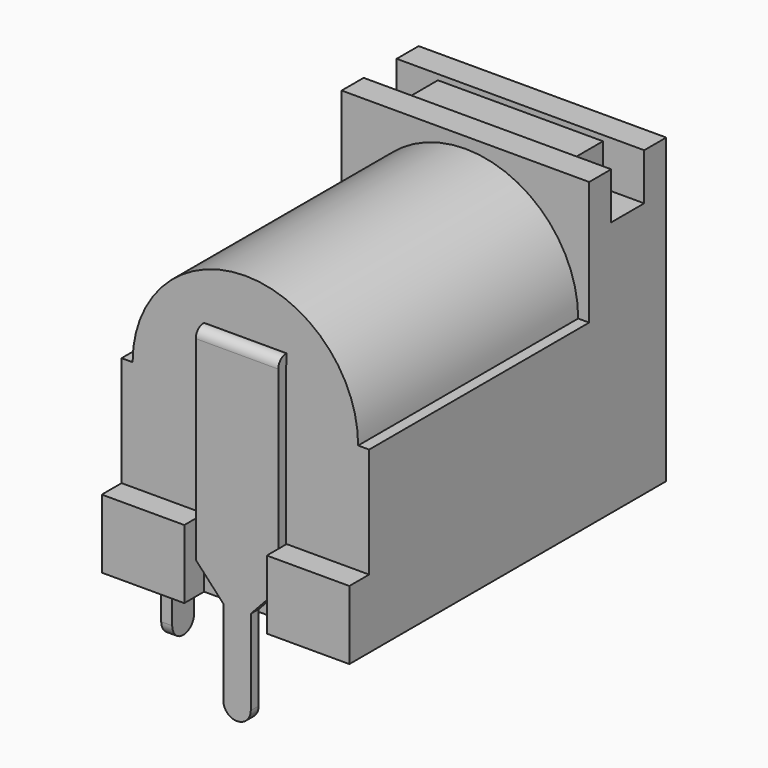
from build123d import *

# Parameters (mm, degrees)
SKETCH_W                = 9
SKETCH_H                = 11
PAD_DEPTH               = 3.5
PAD001_DEPTH            = 10
SKETCH002_W             = 9
SKETCH002_H             = 1.5
POCKET_DEPTH            = 0.2
SKETCH003_W             = 1.5
SKETCH003_H             = 1.5
POCKET001_DEPTH         = 1.5
SKETCH004_R             = 3.2
POCKET002_DEPTH         = 7
SKETCH005_W             = 3
SKETCH005_H             = 2.5
PAD002_DEPTH            = 0.9
PAD003_DEPTH            = 0.36
SKETCH007_W             = 3
SKETCH007_H             = 0.36
PAD004_DEPTH            = 2
FILLET_R                = 0.35
PAD005_DEPTH            = 0.4
SKETCH010_W             = 2.5
SKETCH010_H             = 0.36
PAD006_DEPTH            = 2
FILLET001_R             = 0.39
BODY002_PLACEMENT_ANGLE = -90
PAD007_DEPTH            = 0.125
PAD007_DEPTH_BACK       = 0.125
SKETCH012_R             = 1
PAD008_DEPTH            = 6
CHAMFER_SIZE            = 0.2


with BuildPart() as body:
    # Sketch → Pad (new body)
    with BuildSketch(Plane.XZ):
        with Locations((0, 5.5)):
            Rectangle(SKETCH_W, SKETCH_H)
    extrude(amount=PAD_DEPTH)

    # Sketch001 (on Face6 of Pad) → Pad001 (join)
    with BuildSketch(Plane.XZ.offset(3.5)):
        with BuildLine():
            Line((-4.5, 0), (4.5, 0))
            Line((4.5, 0), (4.5, 6.5))
            Line((4.5, 6.5), (4.1, 6.5))
            ThreePointArc((4.1, 6.5), (0, 10.6), (-4.1, 6.5))
            Line((-4.5, 6.5), (-4.1, 6.5))
            Line((-4.5, 0), (-4.5, 6.5))
        make_face()
    extrude(amount=PAD001_DEPTH)

    # Sketch002 (on Face1 of Pad001) → Pocket (cut)
    with BuildSketch(Plane(origin=(0, 0, 11), x_dir=(-1, 0, 0), z_dir=(0, 0, 1))):
        with Locations((0, 1.75)):
            Rectangle(SKETCH002_W, SKETCH002_H)
    extrude(amount=-POCKET_DEPTH, mode=Mode.SUBTRACT)

    # Sketch003 (on Face11 of Pocket) → Pocket001 (cut)
    with BuildSketch(Plane(origin=(0, 0, 10.8), x_dir=(-1, 0, 0), z_dir=(0, 0, 1))):
        with Locations((-3.75, 1.75)):
            Rectangle(SKETCH003_W, SKETCH003_H)
        with Locations((3.75, 1.75)):
            Rectangle(SKETCH003_W, SKETCH003_H)
    extrude(amount=-POCKET001_DEPTH, mode=Mode.SUBTRACT)

    # Sketch004 (on Face2 of Pocket001) → Pocket002 (cut)
    with BuildSketch(Plane(origin=(0, 0, 0), x_dir=(1, 0, 0), z_dir=(0, 1, 0))):
        with Locations((0, -6.5)):
            Circle(SKETCH004_R)
    extrude(amount=-POCKET002_DEPTH, mode=Mode.SUBTRACT)

    # Sketch005 (on Face22 of Pocket002) → Pad002 (join)
    with BuildSketch(Plane.XZ.offset(13.5)):
        with Locations((-3, 1.25)):
            Rectangle(SKETCH005_W, SKETCH005_H)
        with Locations((3, 1.25)):
            Rectangle(SKETCH005_W, SKETCH005_H)
    extrude(amount=PAD002_DEPTH)


with BuildPart() as body_1:
    # Body placement: moved
    add(body.part.moved(Location((0, 7.7, 0))))


with BuildPart() as leg_back:
    # Sketch006 → Pad003 (new body)
    with BuildSketch(Plane.XZ):
        with BuildLine():
            Line((-0.5, -3), (-0.5, 0.1))
            Line((-0.5, 0.1), (-1.5, 1.175375))
            Line((-1.5, 1.175375), (-1.5, 8.605375))
            Line((-1.5, 8.605375), (1.5, 8.605375))
            Line((1.5, 8.605375), (1.5, 1.175375))
            Line((1.5, 1.175375), (0.5, 0.1))
            Line((0.5, 0.1), (0.5, -3))
            ThreePointArc((-0.5, -3), (0, -3.5), (0.5, -3))
        make_face()
    extrude(amount=PAD003_DEPTH)

    # Sketch007 (on Face9 of Pad003) → Pad004 (join)
    with BuildSketch(Plane(origin=(0, 0, 0), x_dir=(1, 0, 0), z_dir=(0, 1, 0))):
        with Locations((0, -8.425375)):
            Rectangle(SKETCH007_W, SKETCH007_H)
    extrude(amount=PAD004_DEPTH)

    # Fillet
    fillet_edges = [leg_back.edges().sort_by_distance(p)[0] for p in [
        (0, -0.36, 8.605375),
    ]]
    fillet(fillet_edges, radius=FILLET_R)


with BuildPart() as leg_back_1:
    # Body001 placement: moved
    add(leg_back.part.moved(Location((0, -5.82, 0))))


with BuildPart() as leg_side:
    # Sketch009 → Pad005 (new body)
    with BuildSketch(Plane.XZ):
        with BuildLine():
            Line((-0.5, -3), (-0.5, -0.5))
            Line((-0.5, -0.5), (-1.25, 0.306531))
            Line((-1.25, 0.306531), (-1.25, 3.006531))
            Line((-1.25, 3.006531), (1.25, 3.006531))
            Line((1.25, 3.006531), (1.25, 0.306531))
            Line((1.25, 0.306531), (0.5, -0.5))
            Line((0.5, -0.5), (0.5, -3))
            ThreePointArc((-0.5, -3), (0, -3.5), (0.5, -3))
        make_face()
    extrude(amount=PAD005_DEPTH)

    # Sketch010 (on Face9 of Pad005) → Pad006 (join)
    with BuildSketch(Plane(origin=(0, 0, 0), x_dir=(1, 0, 0), z_dir=(0, 1, 0))):
        with Locations((0, -2.826531)):
            Rectangle(SKETCH010_W, SKETCH010_H)
    extrude(amount=PAD006_DEPTH)

    # Fillet001
    fillet001_edges = [leg_side.edges().sort_by_distance(p)[0] for p in [
        (0, -0.4, 3.006531),
    ]]
    fillet(fillet001_edges, radius=FILLET001_R)


with BuildPart() as leg_side_1:
    # Body002 placement: moved
    add(leg_side.part.moved(Location((-4.5, -3, 0))).rotate(Axis((-4.5, -3, 0), (0, 0, 1)), BODY002_PLACEMENT_ANGLE))


with BuildPart() as leg_barrel:
    # Sketch011 → Pad007 (new body, two sides)
    with BuildSketch(Plane.XZ) as pad007_sk:
        with BuildLine():
            ThreePointArc((-0.5, -3), (0, -3.5), (0.5, -3))
            Line((0.5, 5.64), (0.5, -3))
            ThreePointArc((0.5, 5.64), (0, 7.506025), (-0.5, 5.64))
            Line((-0.5, -3), (-0.5, 5.64))
        make_face()
    extrude(amount=PAD007_DEPTH)
    extrude(pad007_sk.sketch, amount=-PAD007_DEPTH_BACK)

    # Sketch012 (on Face5 of Pad007) → Pad008 (join)
    with BuildSketch(Plane(origin=(0, 0.125, 0), x_dir=(1, 0, 0), z_dir=(0, 1, 0))):
        with Locations((0, -6.506025)):
            Circle(SKETCH012_R)
    extrude(amount=PAD008_DEPTH)

    # Chamfer
    chamfer_edges = [leg_barrel.edges().sort_by_distance(p)[0] for p in [
        (-1, 6.125, 6.506025),
    ]]
    chamfer(chamfer_edges, length=CHAMFER_SIZE)


solid = Compound([body_1.part, leg_back_1.part, leg_side_1.part, leg_barrel.part])
